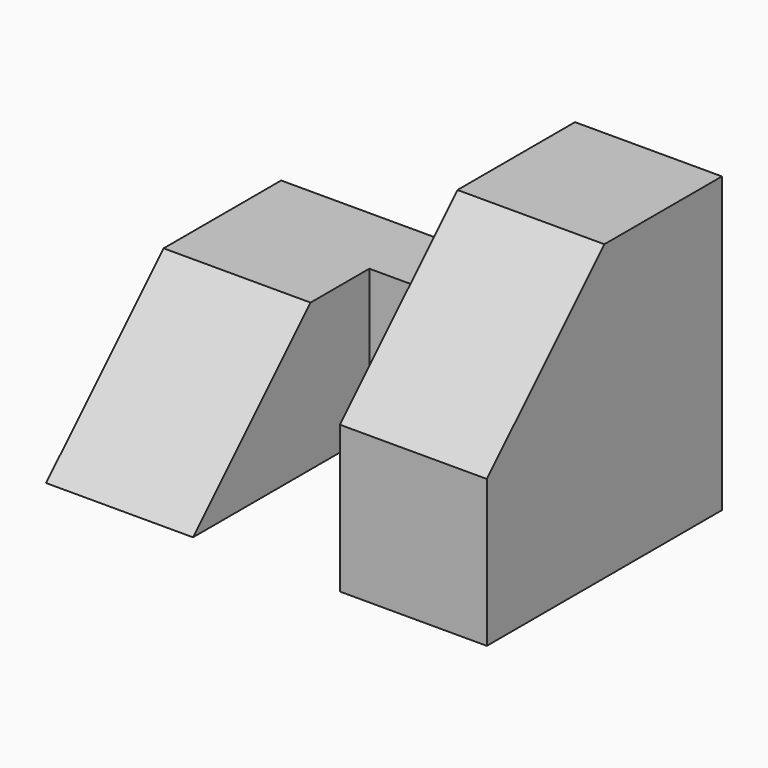
from build123d import *

# Parameters (mm, degrees)
F1_DEPTH = 12.7
F2_W     = 12.7
F2_H     = 12.7
F3_DEPTH = 6.35
F5_DEPTH = 12.7


with BuildPart() as f1:
    # F0 (on Right) → F1 (new body)
    with BuildSketch(Plane.YZ):
        Polygon((-25.4, 0), (0, 0), (0, 12.7), (-12.7, 12.7), align=None)
    extrude(amount=F1_DEPTH)

    # F2 (on Front) → F3 (join)
    with BuildSketch(Plane.XZ):
        with Locations((19.05, 6.35)):
            Rectangle(F2_W, F2_H)
    extrude(amount=F3_DEPTH)

    # F4 (on face) → F5 (join)
    with BuildSketch(Plane.YZ.offset(25.4)):
        Polygon((-25.4, 0), (0, 0), (0, 25.4), (-12.7, 25.4), (-25.4, 12.7), align=None)
    extrude(amount=F5_DEPTH)


solid = f1.part
